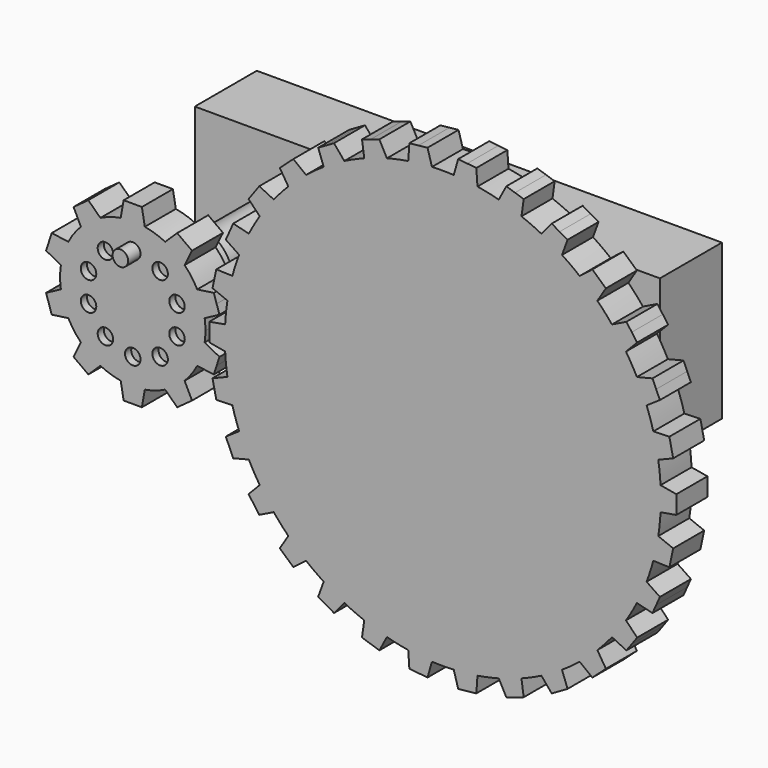
from build123d import *

# Parameters (mm, degrees)
F0_R      = 5
F0_R_2    = 3
F1_DEPTH  = 2.5
F3_DEPTH  = 5
F5_DEPTH  = 5
F6_R      = 1
F7_DEPTH  = 1
F8_R      = 1
F9_DEPTH  = 2
F10_DEPTH = 25
F11_DEPTH = 25
F13_W     = 60
F13_H     = 20
F14_DEPTH = 10


with BuildPart() as f1:
    # F0 (on Front) → F1 (new body, symmetric)
    with BuildSketch(Plane.XZ):
        Circle(F0_R)
        Circle(F0_R_2, mode=Mode.SUBTRACT)
    extrude(amount=F1_DEPTH, both=True)

    # F2 (on face) → F3 (join)
    with BuildSketch(Plane.XZ.offset(2.5)):
        with BuildLine():
            ThreePointArc((9.2729637667, -1.3794085621), (9.3494561423, -0.6915886375), (9.375, 0))
            ThreePointArc((9.375, 0), (9.3494561423, 0.6915886375), (9.2729637667, 1.3794085621))
            ThreePointArc((9.2729637667, 1.3794085621), (8.9161548403, 2.8970343223), (8.3127812852, 4.3345463782))
            ThreePointArc((8.3127812852, 4.3345463782), (7.5845343223, 5.5104867402), (6.6911892658, 6.566476316))
            ThreePointArc((6.6911892658, 6.566476316), (5.5104867402, 7.5845343223), (4.1773988938, 8.3928519278))
            ThreePointArc((4.1773988938, 8.3928519278), (2.8970343223, 8.9161548403), (1.5536078905, 9.2453733036))
            ThreePointArc((1.5536078905, 9.2453733036), (0, 9.375), (-1.5536078905, 9.2453733036))
            ThreePointArc((-1.5536078905, 9.2453733036), (-2.8970343223, 8.9161548403), (-4.1773988938, 8.3928519278))
            ThreePointArc((-4.1773988938, 8.3928519278), (-5.5104867402, 7.5845343223), (-6.6911892658, 6.566476316))
            ThreePointArc((-6.6911892658, 6.566476316), (-7.5845343223, 5.5104867402), (-8.3127812852, 4.3345463782))
            ThreePointArc((-8.3127812852, 4.3345463782), (-8.9161548403, 2.8970343223), (-9.2729637667, 1.3794085621))
            ThreePointArc((-9.2729637667, 1.3794085621), (-9.375, 0), (-9.2729637667, -1.3794085621))
            ThreePointArc((-9.2729637667, -1.3794085621), (-8.9161548403, -2.8970343223), (-8.3127812852, -4.3345463782))
            ThreePointArc((-8.3127812852, -4.3345463782), (-7.5845343223, -5.5104867402), (-6.6911892658, -6.566476316))
            ThreePointArc((-6.6911892658, -6.566476316), (-5.5104867402, -7.5845343223), (-4.1773988938, -8.3928519278))
            ThreePointArc((-4.1773988938, -8.3928519278), (-2.8970343223, -8.9161548403), (-1.5536078905, -9.2453733036))
            ThreePointArc((-1.5536078905, -9.2453733036), (0, -9.375), (1.5536078905, -9.2453733036))
            ThreePointArc((1.5536078905, -9.2453733036), (2.8970343223, -8.9161548403), (4.1773988938, -8.3928519278))
            ThreePointArc((4.1773988938, -8.3928519278), (5.5104867402, -7.5845343223), (6.6911892658, -6.566476316))
            ThreePointArc((6.6911892658, -6.566476316), (7.5845343223, -5.5104867402), (8.3127812852, -4.3345463782))
            ThreePointArc((8.3127812852, -4.3345463782), (8.9161548403, -2.8970343223), (9.2729637667, -1.3794085621))
        make_face()
        with BuildLine():
            ThreePointArc((8.3127812852, 4.3345463782), (8.9161548403, 2.8970343223), (9.2729637667, 1.3794085621))
            Line((9.2729637667, 1.3794085621), (11.1823199426, 2.3946312492))
            Line((11.1823199426, 2.3946312492), (10.8182678729, 3.515068311))
            Line((10.8182678729, 3.515068311), (10.4542158031, 4.6355053728))
            Line((10.4542158031, 4.6355053728), (8.3127812852, 4.3345463782))
        make_face()
        with BuildLine():
            Line((11.1823199426, -2.3946312492), (9.2729637667, -1.3794085621))
            ThreePointArc((9.2729637667, -1.3794085621), (8.9161548403, -2.8970343223), (8.3127812852, -4.3345463782))
            Line((8.3127812852, -4.3345463782), (10.4542158031, -4.6355053728))
            Line((10.4542158031, -4.6355053728), (10.8182678729, -3.515068311))
            Line((10.8182678729, -3.515068311), (11.1823199426, -2.3946312492))
        make_face()
        with BuildLine():
            ThreePointArc((4.1773988938, 8.3928519278), (5.5104867402, 7.5845343223), (6.6911892658, 6.566476316))
            Line((6.6911892658, 6.566476316), (7.6391579371, 8.5101001246))
            Line((7.6391579371, 8.5101001246), (6.6860572448, 9.202568311))
            Line((6.6860572448, 9.202568311), (5.7329565525, 9.8950364974))
            Line((5.7329565525, 9.8950364974), (4.1773988938, 8.3928519278))
        make_face()
        with BuildLine():
            Line((7.6391579371, -8.5101001246), (6.6911892658, -6.566476316))
            ThreePointArc((6.6911892658, -6.566476316), (5.5104867402, -7.5845343223), (4.1773988938, -8.3928519278))
            Line((4.1773988938, -8.3928519278), (5.7329565525, -9.8950364974))
            Line((5.7329565525, -9.8950364974), (6.6860572448, -9.202568311))
            Line((6.6860572448, -9.202568311), (7.6391579371, -8.5101001246))
        make_face()
        with BuildLine():
            ThreePointArc((-1.5536078905, 9.2453733036), (0, 9.375), (1.5536078905, 9.2453733036))
            Line((1.5536078905, 9.2453733036), (1.1780972451, 11.375))
            Line((1.1780972451, 11.375), (0, 11.375))
            Line((0, 11.375), (-1.1780972451, 11.375))
            Line((-1.1780972451, 11.375), (-1.5536078905, 9.2453733036))
        make_face()
        with BuildLine():
            Line((1.1780972451, -11.375), (1.5536078905, -9.2453733036))
            ThreePointArc((1.5536078905, -9.2453733036), (0, -9.375), (-1.5536078905, -9.2453733036))
            Line((-1.5536078905, -9.2453733036), (-1.1780972451, -11.375))
            Line((-1.1780972451, -11.375), (0, -11.375))
            Line((0, -11.375), (1.1780972451, -11.375))
        make_face()
        with BuildLine():
            ThreePointArc((-6.6911892658, 6.566476316), (-5.5104867402, 7.5845343223), (-4.1773988938, 8.3928519278))
            Line((-4.1773988938, 8.3928519278), (-5.7329565525, 9.8950364974))
            Line((-5.7329565525, 9.8950364974), (-6.6860572448, 9.202568311))
            Line((-6.6860572448, 9.202568311), (-7.6391579371, 8.5101001246))
            Line((-7.6391579371, 8.5101001246), (-6.6911892658, 6.566476316))
        make_face()
        with BuildLine():
            Line((-5.7329565525, -9.8950364974), (-4.1773988938, -8.3928519278))
            ThreePointArc((-4.1773988938, -8.3928519278), (-5.5104867402, -7.5845343223), (-6.6911892658, -6.566476316))
            Line((-6.6911892658, -6.566476316), (-7.6391579371, -8.5101001246))
            Line((-7.6391579371, -8.5101001246), (-6.6860572448, -9.202568311))
            Line((-6.6860572448, -9.202568311), (-5.7329565525, -9.8950364974))
        make_face()
        with BuildLine():
            ThreePointArc((-9.2729637667, 1.3794085621), (-8.9161548403, 2.8970343223), (-8.3127812852, 4.3345463782))
            Line((-8.3127812852, 4.3345463782), (-10.4542158031, 4.6355053728))
            Line((-10.4542158031, 4.6355053728), (-10.8182678729, 3.515068311))
            Line((-10.8182678729, 3.515068311), (-11.1823199426, 2.3946312492))
            Line((-11.1823199426, 2.3946312492), (-9.2729637667, 1.3794085621))
        make_face()
        with BuildLine():
            Line((-10.4542158031, -4.6355053728), (-8.3127812852, -4.3345463782))
            ThreePointArc((-8.3127812852, -4.3345463782), (-8.9161548403, -2.8970343223), (-9.2729637667, -1.3794085621))
            Line((-9.2729637667, -1.3794085621), (-11.1823199426, -2.3946312492))
            Line((-11.1823199426, -2.3946312492), (-10.8182678729, -3.515068311))
            Line((-10.8182678729, -3.515068311), (-10.4542158031, -4.6355053728))
        make_face()
    extrude(amount=F3_DEPTH)

    # F6 (on face) → F7 (cut)
    with BuildSketch(Plane.XZ.offset(7.5)):
        with Locations((0, 6)):
            Circle(F6_R)
        with Locations((-3.5267115138, 4.8541019662)):
            Circle(F6_R)
        with Locations((-5.7063390978, 1.8541019662)):
            Circle(F6_R)
        with Locations((-5.7063390978, -1.8541019662)):
            Circle(F6_R)
        with Locations((-3.5267115138, -4.8541019662)):
            Circle(F6_R)
        with Locations((0, -6)):
            Circle(F6_R)
        with Locations((3.5267115138, -4.8541019662)):
            Circle(F6_R)
        with Locations((5.7063390978, -1.8541019662)):
            Circle(F6_R)
        with Locations((5.7063390978, 1.8541019662)):
            Circle(F6_R)
        with Locations((3.5267115138, 4.8541019662)):
            Circle(F6_R)
    extrude(amount=-F7_DEPTH, mode=Mode.SUBTRACT)


with BuildPart() as f1b:
    # F0 (on Front) → F1, piece 2 (new body, symmetric)
    with BuildSketch(Plane.XZ):
        with Locations((40, 0)):
            Circle(F0_R)
        with Locations((40, 0)):
            Circle(F0_R_2, mode=Mode.SUBTRACT)
    extrude(amount=F1_DEPTH, both=True)

    # F4 (on face) → F5 (join)
    with BuildSketch(Plane.XZ.offset(2.5)):
        with BuildLine():
            ThreePointArc((68.0829066802, -1.5381733945), (68.1144747006, -0.7693746225), (68.125, 0))
            ThreePointArc((68.125, 0), (68.1144747006, 0.7693746225), (68.0829066802, 1.5381733945))
            ThreePointArc((68.0829066802, 1.5381733945), (67.9709283072, 2.9398630294), (67.7890320221, 4.3342039956))
            ThreePointArc((67.7890320221, 4.3342039956), (67.5104012706, 5.8475163042), (67.1494235596, 7.3433252263))
            ThreePointArc((67.1494235596, 7.3433252263), (66.7484645208, 8.6911029668), (66.280643318, 10.0171558733))
            ThreePointArc((66.280643318, 10.0171558733), (65.6934659962, 11.4394680865), (65.0293803521, 12.8275385085))
            ThreePointArc((65.0293803521, 12.8275385085), (64.3569644814, 14.0625), (63.6236643925, 15.2623099717))
            ThreePointArc((63.6236643925, 15.2623099717), (62.7536029668, 16.5314602207), (61.815433119, 17.7511268046))
            ThreePointArc((61.815433119, 17.7511268046), (60.9009482166, 18.8192983038), (59.934217974, 19.8404278876))
            ThreePointArc((59.934217974, 19.8404278876), (58.8192983038, 20.9009482166), (57.6480467764, 21.8989056799))
            ThreePointArc((57.6480467764, 21.8989056799), (56.5314602207, 22.7536029668), (55.3735505752, 23.5514238999))
            ThreePointArc((55.3735505752, 23.5514238999), (54.0625, 24.3569644814), (52.709356105, 25.0895972944))
            ThreePointArc((52.709356105, 25.0895972944), (51.4394680865, 25.6934659962), (50.1409852457, 26.2331096755))
            ThreePointArc((50.1409852457, 26.2331096755), (48.6911029668, 26.7484645208), (47.2152055856, 27.1837531139))
            ThreePointArc((47.2152055856, 27.1837531139), (45.8475163042, 27.5104012706), (44.4652101991, 27.7682826779))
            ThreePointArc((44.4652101991, 27.7682826779), (42.9398630294, 27.9709283072), (41.4057159597, 28.0898484802))
            ThreePointArc((41.4057159597, 28.0898484802), (40, 28.125), (38.5942840403, 28.0898484802))
            ThreePointArc((38.5942840403, 28.0898484802), (37.0601369706, 27.9709283072), (35.5347898009, 27.7682826779))
            ThreePointArc((35.5347898009, 27.7682826779), (34.1524836958, 27.5104012706), (32.7847944144, 27.1837531139))
            ThreePointArc((32.7847944144, 27.1837531139), (31.3088970332, 26.7484645208), (29.8590147543, 26.2331096755))
            ThreePointArc((29.8590147543, 26.2331096755), (28.5605319135, 25.6934659962), (27.290643895, 25.0895972944))
            ThreePointArc((27.290643895, 25.0895972944), (25.9375, 24.3569644814), (24.6264494248, 23.5514238999))
            ThreePointArc((24.6264494248, 23.5514238999), (23.4685397793, 22.7536029668), (22.3519532236, 21.8989056799))
            ThreePointArc((22.3519532236, 21.8989056799), (21.1807016962, 20.9009482166), (20.065782026, 19.8404278876))
            ThreePointArc((20.065782026, 19.8404278876), (19.0990517834, 18.8192983038), (18.184566881, 17.7511268046))
            ThreePointArc((18.184566881, 17.7511268046), (17.2463970332, 16.5314602207), (16.3763356075, 15.2623099717))
            ThreePointArc((16.3763356075, 15.2623099717), (15.6430355186, 14.0625), (14.9706196479, 12.8275385085))
            ThreePointArc((14.9706196479, 12.8275385085), (14.3065340038, 11.4394680865), (13.719356682, 10.0171558733))
            ThreePointArc((13.719356682, 10.0171558733), (13.2515354792, 8.6911029668), (12.8505764404, 7.3433252263))
            ThreePointArc((12.8505764404, 7.3433252263), (12.4895987294, 5.8475163042), (12.2109679779, 4.3342039956))
            ThreePointArc((12.2109679779, 4.3342039956), (12.0290716928, 2.9398630294), (11.9170933198, 1.5381733945))
            ThreePointArc((11.9170933198, 1.5381733945), (11.875, 0), (11.9170933198, -1.5381733945))
            ThreePointArc((11.9170933198, -1.5381733945), (12.0290716928, -2.9398630294), (12.2109679779, -4.3342039956))
            ThreePointArc((12.2109679779, -4.3342039956), (12.4895987294, -5.8475163042), (12.8505764404, -7.3433252263))
            ThreePointArc((12.8505764404, -7.3433252263), (13.2515354792, -8.6911029668), (13.719356682, -10.0171558733))
            ThreePointArc((13.719356682, -10.0171558733), (14.3065340038, -11.4394680865), (14.9706196479, -12.8275385085))
            ThreePointArc((14.9706196479, -12.8275385085), (15.6430355186, -14.0625), (16.3763356075, -15.2623099717))
            ThreePointArc((16.3763356075, -15.2623099717), (17.2463970332, -16.5314602207), (18.184566881, -17.7511268046))
            ThreePointArc((18.184566881, -17.7511268046), (19.0990517834, -18.8192983038), (20.065782026, -19.8404278876))
            ThreePointArc((20.065782026, -19.8404278876), (21.1807016962, -20.9009482166), (22.3519532236, -21.8989056799))
            ThreePointArc((22.3519532236, -21.8989056799), (23.4685397793, -22.7536029668), (24.6264494248, -23.5514238999))
            ThreePointArc((24.6264494248, -23.5514238999), (25.9375, -24.3569644814), (27.290643895, -25.0895972944))
            ThreePointArc((27.290643895, -25.0895972944), (28.5605319135, -25.6934659962), (29.8590147543, -26.2331096755))
            ThreePointArc((29.8590147543, -26.2331096755), (31.3088970332, -26.7484645208), (32.7847944144, -27.1837531139))
            ThreePointArc((32.7847944144, -27.1837531139), (34.1524836958, -27.5104012706), (35.5347898009, -27.7682826779))
            ThreePointArc((35.5347898009, -27.7682826779), (37.0601369706, -27.9709283072), (38.5942840403, -28.0898484802))
            ThreePointArc((38.5942840403, -28.0898484802), (40, -28.125), (41.4057159597, -28.0898484802))
            ThreePointArc((41.4057159597, -28.0898484802), (42.9398630294, -27.9709283072), (44.4652101991, -27.7682826779))
            ThreePointArc((44.4652101991, -27.7682826779), (45.8475163042, -27.5104012706), (47.2152055856, -27.1837531139))
            ThreePointArc((47.2152055856, -27.1837531139), (48.6911029668, -26.7484645208), (50.1409852457, -26.2331096755))
            ThreePointArc((50.1409852457, -26.2331096755), (51.4394680865, -25.6934659962), (52.709356105, -25.0895972944))
            ThreePointArc((52.709356105, -25.0895972944), (54.0625, -24.3569644814), (55.3735505752, -23.5514238999))
            ThreePointArc((55.3735505752, -23.5514238999), (56.5314602207, -22.7536029668), (57.6480467764, -21.8989056799))
            ThreePointArc((57.6480467764, -21.8989056799), (58.8192983038, -20.9009482166), (59.934217974, -19.8404278876))
            ThreePointArc((59.934217974, -19.8404278876), (60.9009482166, -18.8192983038), (61.815433119, -17.7511268046))
            ThreePointArc((61.815433119, -17.7511268046), (62.7536029668, -16.5314602207), (63.6236643925, -15.2623099717))
            ThreePointArc((63.6236643925, -15.2623099717), (64.3569644814, -14.0625), (65.0293803521, -12.8275385085))
            ThreePointArc((65.0293803521, -12.8275385085), (65.6934659962, -11.4394680865), (66.280643318, -10.0171558733))
            ThreePointArc((66.280643318, -10.0171558733), (66.7484645208, -8.6911029668), (67.1494235596, -7.3433252263))
            ThreePointArc((67.1494235596, -7.3433252263), (67.5104012706, -5.8475163042), (67.7890320221, -4.3342039956))
            ThreePointArc((67.7890320221, -4.3342039956), (67.9709283072, -2.9398630294), (68.0829066802, -1.5381733945))
        make_face()
        with BuildLine():
            ThreePointArc((68.0829066802, 1.5381733945), (68.1144747006, 0.7693746225), (68.125, 0))
            ThreePointArc((68.125, 0), (68.1144747006, -0.7693746225), (68.0829066802, -1.5381733945))
            Line((68.0829066802, -1.5381733945), (70.125, -1.1780972451))
            Line((70.125, -1.1780972451), (70.125, 0))
            Line((70.125, 0), (70.125, 1.1780972451))
            Line((70.125, 1.1780972451), (68.0829066802, 1.5381733945))
        make_face()
        with BuildLine():
            ThreePointArc((67.1494235596, 7.3433252263), (67.5104012706, 5.8475163042), (67.7890320221, 4.3342039956))
            Line((67.7890320221, 4.3342039956), (69.7116366623, 5.1109866922))
            Line((69.7116366623, 5.1109866922), (69.4666964721, 6.2633396859))
            Line((69.4666964721, 6.2633396859), (69.2217562819, 7.4156926796))
            Line((69.2217562819, 7.4156926796), (67.1494235596, 7.3433252263))
        make_face()
        with BuildLine():
            Line((69.7116366623, -5.1109866922), (67.7890320221, -4.3342039956))
            ThreePointArc((67.7890320221, -4.3342039956), (67.5104012706, -5.8475163042), (67.1494235596, -7.3433252263))
            Line((67.1494235596, -7.3433252263), (69.2217562819, -7.4156926796))
            Line((69.2217562819, -7.4156926796), (69.4666964721, -6.2633396859))
            Line((69.4666964721, -6.2633396859), (69.7116366623, -5.1109866922))
        make_face()
        with BuildLine():
            ThreePointArc((65.0293803521, 12.8275385085), (65.6934659962, 11.4394680865), (66.280643318, 10.0171558733))
            Line((66.280643318, 10.0171558733), (67.9997322302, 11.1766959857))
            Line((67.9997322302, 11.1766959857), (67.5205569115, 12.2529413727))
            Line((67.5205569115, 12.2529413727), (67.0413815928, 13.3291867596))
            Line((67.0413815928, 13.3291867596), (65.0293803521, 12.8275385085))
        make_face()
        with BuildLine():
            Line((67.9997322302, -11.1766959857), (66.280643318, -10.0171558733))
            ThreePointArc((66.280643318, -10.0171558733), (65.6934659962, -11.4394680865), (65.0293803521, -12.8275385085))
            Line((65.0293803521, -12.8275385085), (67.0413815928, -13.3291867596))
            Line((67.0413815928, -13.3291867596), (67.5205569115, -12.2529413727))
            Line((67.5205569115, -12.2529413727), (67.9997322302, -11.1766959857))
        make_face()
        with BuildLine():
            ThreePointArc((61.815433119, 17.7511268046), (62.7536029668, 16.5314602207), (63.6236643925, 15.2623099717))
            Line((63.6236643925, 15.2623099717), (65.064105142, 16.753930033))
            Line((65.064105142, 16.753930033), (64.3716369555, 17.7070307253))
            Line((64.3716369555, 17.7070307253), (63.6791687691, 18.6601314176))
            Line((63.6791687691, 18.6601314176), (61.815433119, 17.7511268046))
        make_face()
        with BuildLine():
            Line((65.064105142, -16.753930033), (63.6236643925, -15.2623099717))
            ThreePointArc((63.6236643925, -15.2623099717), (62.7536029668, -16.5314602207), (61.815433119, -17.7511268046))
            Line((61.815433119, -17.7511268046), (63.6791687691, -18.6601314176))
            Line((63.6791687691, -18.6601314176), (64.3716369555, -17.7070307253))
            Line((64.3716369555, -17.7070307253), (65.064105142, -16.753930033))
        make_face()
        with BuildLine():
            ThreePointArc((57.6480467764, 21.8989056799), (58.8192983038, 20.9009482166), (59.934217974, 19.8404278876))
            Line((59.934217974, 19.8404278876), (61.0330563882, 21.5989369435))
            Line((61.0330563882, 21.5989369435), (60.1575595166, 22.3872378675))
            Line((60.1575595166, 22.3872378675), (59.282062645, 23.1755387915))
            Line((59.282062645, 23.1755387915), (57.6480467764, 21.8989056799))
        make_face()
        with BuildLine():
            Line((61.0330563882, -21.5989369435), (59.934217974, -19.8404278876))
            ThreePointArc((59.934217974, -19.8404278876), (58.8192983038, -20.9009482166), (57.6480467764, -21.8989056799))
            Line((57.6480467764, -21.8989056799), (59.282062645, -23.1755387915))
            Line((59.282062645, -23.1755387915), (60.1575595166, -22.3872378675))
            Line((60.1575595166, -22.3872378675), (61.0330563882, -21.5989369435))
        make_face()
        with BuildLine():
            ThreePointArc((52.709356105, 25.0895972944), (54.0625, 24.3569644814), (55.3735505752, 23.5514238999))
            Line((55.3735505752, 23.5514238999), (56.0827621424, 25.4999666665))
            Line((56.0827621424, 25.4999666665), (55.0625, 26.089015289))
            Line((55.0625, 26.089015289), (54.0422378576, 26.6780639116))
            Line((54.0422378576, 26.6780639116), (52.709356105, 25.0895972944))
        make_face()
        with BuildLine():
            Line((56.0827621424, -25.4999666665), (55.3735505752, -23.5514238999))
            ThreePointArc((55.3735505752, -23.5514238999), (54.0625, -24.3569644814), (52.709356105, -25.0895972944))
            Line((52.709356105, -25.0895972944), (54.0422378576, -26.6780639116))
            Line((54.0422378576, -26.6780639116), (55.0625, -26.089015289))
            Line((55.0625, -26.089015289), (56.0827621424, -25.4999666665))
        make_face()
        with BuildLine():
            ThreePointArc((47.2152055856, 27.1837531139), (48.6911029668, 26.7484645208), (50.1409852457, 26.2331096755))
            Line((50.1409852457, 26.2331096755), (50.4295740173, 28.2865254836))
            Line((50.4295740173, 28.2865254836), (49.3091369555, 28.6505775534))
            Line((49.3091369555, 28.6505775534), (48.1886998938, 29.0146296232))
            Line((48.1886998938, 29.0146296232), (47.2152055856, 27.1837531139))
        make_face()
        with BuildLine():
            Line((50.4295740173, -28.2865254836), (50.1409852457, -26.2331096755))
            ThreePointArc((50.1409852457, -26.2331096755), (48.6911029668, -26.7484645208), (47.2152055856, -27.1837531139))
            Line((47.2152055856, -27.1837531139), (48.1886998938, -29.0146296232))
            Line((48.1886998938, -29.0146296232), (49.3091369555, -28.6505775534))
            Line((49.3091369555, -28.6505775534), (50.4295740173, -28.2865254836))
        make_face()
        with BuildLine():
            ThreePointArc((41.4057159597, 28.0898484802), (42.9398630294, 27.9709283072), (44.4652101991, 27.7682826779))
            Line((44.4652101991, 27.7682826779), (44.3205634611, 29.8368274034))
            Line((44.3205634611, 29.8368274034), (43.1489199559, 29.959972098))
            Line((43.1489199559, 29.959972098), (41.9772764508, 30.0831167926))
            Line((41.9772764508, 30.0831167926), (41.4057159597, 28.0898484802))
        make_face()
        with BuildLine():
            Line((44.3205634611, -29.8368274034), (44.4652101991, -27.7682826779))
            ThreePointArc((44.4652101991, -27.7682826779), (42.9398630294, -27.9709283072), (41.4057159597, -28.0898484802))
            Line((41.4057159597, -28.0898484802), (41.9772764508, -30.0831167926))
            Line((41.9772764508, -30.0831167926), (43.1489199559, -29.959972098))
            Line((43.1489199559, -29.959972098), (44.3205634611, -29.8368274034))
        make_face()
        with BuildLine():
            ThreePointArc((35.5347898009, 27.7682826779), (37.0601369706, 27.9709283072), (38.5942840403, 28.0898484802))
            Line((38.5942840403, 28.0898484802), (38.0227235492, 30.0831167926))
            Line((38.0227235492, 30.0831167926), (36.8510800441, 29.959972098))
            Line((36.8510800441, 29.959972098), (35.6794365389, 29.8368274034))
            Line((35.6794365389, 29.8368274034), (35.5347898009, 27.7682826779))
        make_face()
        with BuildLine():
            Line((38.0227235492, -30.0831167926), (38.5942840403, -28.0898484802))
            ThreePointArc((38.5942840403, -28.0898484802), (37.0601369706, -27.9709283072), (35.5347898009, -27.7682826779))
            Line((35.5347898009, -27.7682826779), (35.6794365389, -29.8368274034))
            Line((35.6794365389, -29.8368274034), (36.8510800441, -29.959972098))
            Line((36.8510800441, -29.959972098), (38.0227235492, -30.0831167926))
        make_face()
        with BuildLine():
            ThreePointArc((29.8590147543, 26.2331096755), (31.3088970332, 26.7484645208), (32.7847944144, 27.1837531139))
            Line((32.7847944144, 27.1837531139), (31.8113001062, 29.0146296232))
            Line((31.8113001062, 29.0146296232), (30.6908630445, 28.6505775534))
            Line((30.6908630445, 28.6505775534), (29.5704259827, 28.2865254836))
            Line((29.5704259827, 28.2865254836), (29.8590147543, 26.2331096755))
        make_face()
        with BuildLine():
            Line((31.8113001062, -29.0146296232), (32.7847944144, -27.1837531139))
            ThreePointArc((32.7847944144, -27.1837531139), (31.3088970332, -26.7484645208), (29.8590147543, -26.2331096755))
            Line((29.8590147543, -26.2331096755), (29.5704259827, -28.2865254836))
            Line((29.5704259827, -28.2865254836), (30.6908630445, -28.6505775534))
            Line((30.6908630445, -28.6505775534), (31.8113001062, -29.0146296232))
        make_face()
        with BuildLine():
            ThreePointArc((24.6264494248, 23.5514238999), (25.9375, 24.3569644814), (27.290643895, 25.0895972944))
            Line((27.290643895, 25.0895972944), (25.9577621424, 26.6780639116))
            Line((25.9577621424, 26.6780639116), (24.9375, 26.089015289))
            Line((24.9375, 26.089015289), (23.9172378576, 25.4999666665))
            Line((23.9172378576, 25.4999666665), (24.6264494248, 23.5514238999))
        make_face()
        with BuildLine():
            Line((25.9577621424, -26.6780639116), (27.290643895, -25.0895972944))
            ThreePointArc((27.290643895, -25.0895972944), (25.9375, -24.3569644814), (24.6264494248, -23.5514238999))
            Line((24.6264494248, -23.5514238999), (23.9172378576, -25.4999666665))
            Line((23.9172378576, -25.4999666665), (24.9375, -26.089015289))
            Line((24.9375, -26.089015289), (25.9577621424, -26.6780639116))
        make_face()
        with BuildLine():
            ThreePointArc((20.065782026, 19.8404278876), (21.1807016962, 20.9009482166), (22.3519532236, 21.8989056799))
            Line((22.3519532236, 21.8989056799), (20.717937355, 23.1755387915))
            Line((20.717937355, 23.1755387915), (19.8424404834, 22.3872378675))
            Line((19.8424404834, 22.3872378675), (18.9669436118, 21.5989369435))
            Line((18.9669436118, 21.5989369435), (20.065782026, 19.8404278876))
        make_face()
        with BuildLine():
            Line((20.717937355, -23.1755387915), (22.3519532236, -21.8989056799))
            ThreePointArc((22.3519532236, -21.8989056799), (21.1807016962, -20.9009482166), (20.065782026, -19.8404278876))
            Line((20.065782026, -19.8404278876), (18.9669436118, -21.5989369435))
            Line((18.9669436118, -21.5989369435), (19.8424404834, -22.3872378675))
            Line((19.8424404834, -22.3872378675), (20.717937355, -23.1755387915))
        make_face()
        with BuildLine():
            ThreePointArc((16.3763356075, 15.2623099717), (17.2463970332, 16.5314602207), (18.184566881, 17.7511268046))
            Line((18.184566881, 17.7511268046), (16.3208312309, 18.6601314176))
            Line((16.3208312309, 18.6601314176), (15.6283630445, 17.7070307253))
            Line((15.6283630445, 17.7070307253), (14.935894858, 16.753930033))
            Line((14.935894858, 16.753930033), (16.3763356075, 15.2623099717))
        make_face()
        with BuildLine():
            Line((16.3208312309, -18.6601314176), (18.184566881, -17.7511268046))
            ThreePointArc((18.184566881, -17.7511268046), (17.2463970332, -16.5314602207), (16.3763356075, -15.2623099717))
            Line((16.3763356075, -15.2623099717), (14.935894858, -16.753930033))
            Line((14.935894858, -16.753930033), (15.6283630445, -17.7070307253))
            Line((15.6283630445, -17.7070307253), (16.3208312309, -18.6601314176))
        make_face()
        with BuildLine():
            ThreePointArc((13.719356682, 10.0171558733), (14.3065340038, 11.4394680865), (14.9706196479, 12.8275385085))
            Line((14.9706196479, 12.8275385085), (12.9586184072, 13.3291867596))
            Line((12.9586184072, 13.3291867596), (12.4794430885, 12.2529413727))
            Line((12.4794430885, 12.2529413727), (12.0002677698, 11.1766959857))
            Line((12.0002677698, 11.1766959857), (13.719356682, 10.0171558733))
        make_face()
        with BuildLine():
            Line((12.9586184072, -13.3291867596), (14.9706196479, -12.8275385085))
            ThreePointArc((14.9706196479, -12.8275385085), (14.3065340038, -11.4394680865), (13.719356682, -10.0171558733))
            Line((13.719356682, -10.0171558733), (12.0002677698, -11.1766959857))
            Line((12.0002677698, -11.1766959857), (12.4794430885, -12.2529413727))
            Line((12.4794430885, -12.2529413727), (12.9586184072, -13.3291867596))
        make_face()
        with BuildLine():
            ThreePointArc((12.2109679779, 4.3342039956), (12.4895987294, 5.8475163042), (12.8505764404, 7.3433252263))
            Line((12.8505764404, 7.3433252263), (10.7782437181, 7.4156926796))
            Line((10.7782437181, 7.4156926796), (10.5333035279, 6.2633396859))
            Line((10.5333035279, 6.2633396859), (10.2883633377, 5.1109866922))
            Line((10.2883633377, 5.1109866922), (12.2109679779, 4.3342039956))
        make_face()
        with BuildLine():
            Line((10.7782437181, -7.4156926796), (12.8505764404, -7.3433252263))
            ThreePointArc((12.8505764404, -7.3433252263), (12.4895987294, -5.8475163042), (12.2109679779, -4.3342039956))
            Line((12.2109679779, -4.3342039956), (10.2883633377, -5.1109866922))
            Line((10.2883633377, -5.1109866922), (10.5333035279, -6.2633396859))
            Line((10.5333035279, -6.2633396859), (10.7782437181, -7.4156926796))
        make_face()
        with BuildLine():
            ThreePointArc((11.9170933198, -1.5381733945), (11.875, 0), (11.9170933198, 1.5381733945))
            Line((11.9170933198, 1.5381733945), (9.875, 1.1780972451))
            Line((9.875, 1.1780972451), (9.875, 0))
            Line((9.875, 0), (9.875, -1.1780972451))
            Line((9.875, -1.1780972451), (11.9170933198, -1.5381733945))
        make_face()
    extrude(amount=F5_DEPTH)


with BuildPart() as f9:
    # F8 (on face) → F9 (new body)
    with BuildSketch(Plane.XZ.offset(7.5)):
        with Locations((0, 6)):
            Circle(F8_R)
    extrude(amount=F9_DEPTH)


with BuildPart() as f10:
    # F10 (new): a face of the model
    f10_faces = [f1b.part.faces().sort_by_distance(p)[0] for p in [
        (40, -2.5, 0),
    ]]
    extrude(f10_faces, amount=F10_DEPTH)


with BuildPart() as f11:
    # F11 (new): a face of the model
    f11_faces = [f1.part.faces().sort_by_distance(p)[0] for p in [
        (0, -2.5, 0),
    ]]
    extrude(f11_faces, amount=F11_DEPTH)


with BuildPart() as f14:
    # F13 (on offset) → F14 (new body)
    with BuildSketch(Plane.XZ.offset(-25)):
        with Locations((20, 0)):
            Rectangle(F13_W, F13_H)
    extrude(amount=F14_DEPTH)

    # F15: cut F10
    add(f10.part, mode=Mode.SUBTRACT)

    # F16: cut F11
    add(f11.part, mode=Mode.SUBTRACT)


solid = Compound([f1.part, f1b.part, f9.part, f10.part, f11.part, f14.part])
